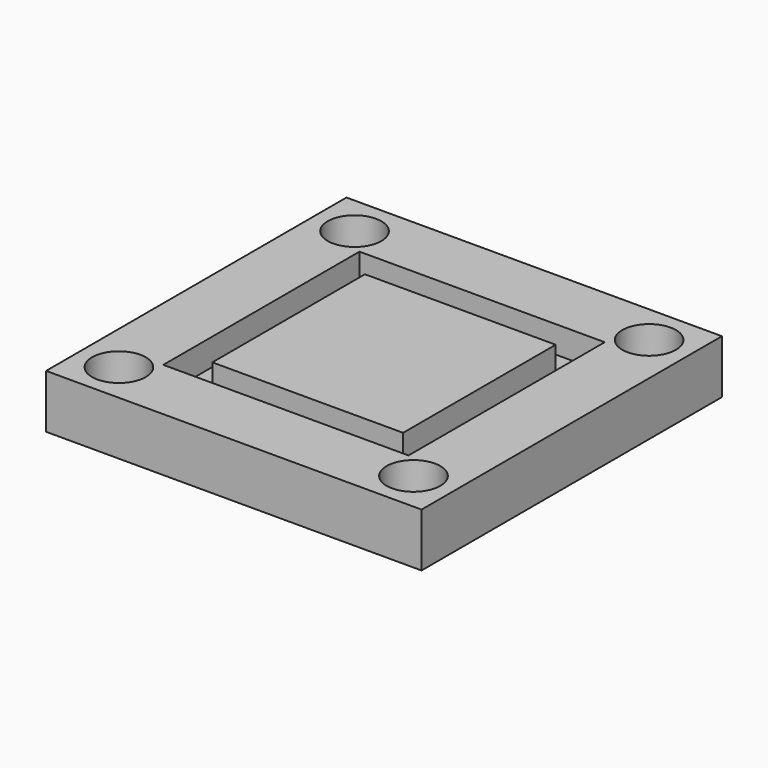
from build123d import *

# Parameters (mm, degrees)
F0_W     = 70
F0_H     = 70
F0_R     = 5.0038
F0_R_2   = 5
F1_DEPTH = 10
F2_W     = 45.72
F2_H     = 45.72
F2_W_2   = 35.56
F2_H_2   = 35.56
F3_DEPTH = 5


with BuildPart() as f1:
    # F0 (on Top) → F1 (new body)
    with BuildSketch(Plane.XY):
        Rectangle(F0_W, F0_H)
        with Locations((-27.4562, -27.4562)):
            Circle(F0_R, mode=Mode.SUBTRACT)
        with Locations((27.4562, -27.4562)):
            Circle(F0_R, mode=Mode.SUBTRACT)
        with Locations((-27.4562, 27.4562)):
            Circle(F0_R, mode=Mode.SUBTRACT)
        with Locations((27.46, 27.46)):
            Circle(F0_R_2, mode=Mode.SUBTRACT)
    extrude(amount=F1_DEPTH)

    # F2 (on face) → F3 (cut)
    with BuildSketch(Plane.XY.offset(10)):
        Rectangle(F2_W, F2_H)
        Rectangle(F2_W_2, F2_H_2, mode=Mode.SUBTRACT)
    extrude(amount=-F3_DEPTH, mode=Mode.SUBTRACT)


solid = f1.part
